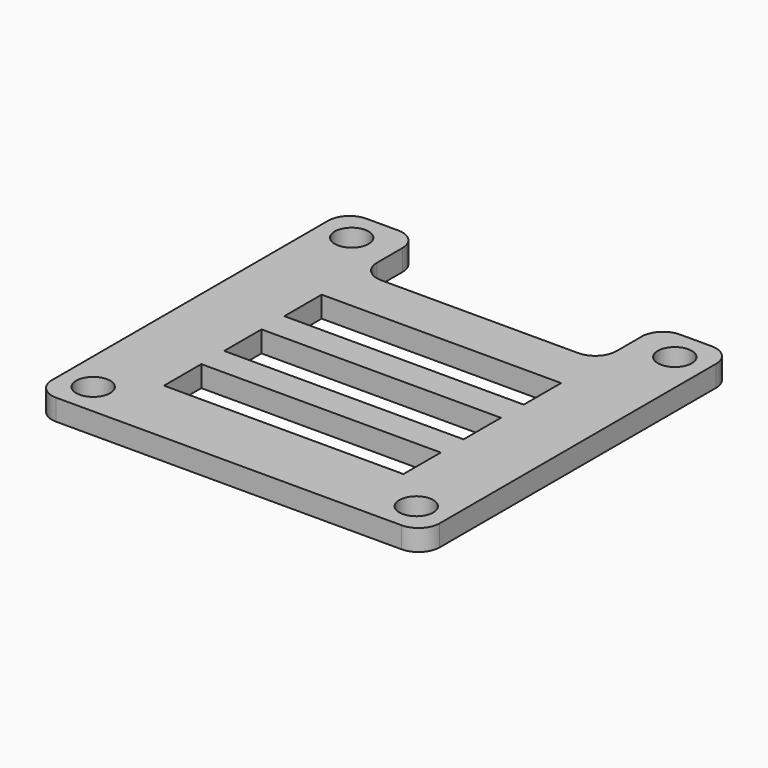
from build123d import *

# Parameters (mm, degrees)
F0_R     = 1.6
F0_W     = 22.6
F0_H     = 4.404037
F1_DEPTH = 2


with BuildPart() as f1:
    # F0 (on Top) → F1 (new body)
    with BuildSketch(Plane.XY):
        with BuildLine():
            Line((-13.3, 18.3), (-16.3, 18.3))
            ThreePointArc((-16.3, 18.3), (-17.714214, 17.714214), (-18.3, 16.3))
            Line((-18.3, 16.3), (-18.3, -16.3))
            ThreePointArc((-18.3, -16.3), (-17.714214, -17.714214), (-16.3, -18.3))
            Line((-16.3, -18.3), (16.3, -18.3))
            ThreePointArc((16.3, -18.3), (17.714214, -17.714214), (18.3, -16.3))
            Line((18.3, -16.3), (18.3, 16.3))
            ThreePointArc((18.3, 16.3), (17.714214, 17.714214), (16.3, 18.3))
            Line((16.3, 18.3), (13.3, 18.3))
            ThreePointArc((13.3, 18.3), (11.885786, 17.714214), (11.3, 16.3))
            Line((11.3, 16.3), (11.3, 13.3))
            ThreePointArc((11.3, 13.3), (10.714214, 11.885786), (9.3, 11.3))
            Line((9.3, 11.3), (-9.3, 11.3))
            ThreePointArc((-9.3, 11.3), (-10.714214, 11.885786), (-11.3, 13.3))
            Line((-11.3, 13.3), (-11.3, 16.3))
            ThreePointArc((-11.3, 16.3), (-11.885786, 17.714214), (-13.3, 18.3))
        make_face()
        with Locations((-15.25, -15.25)):
            Circle(F0_R, mode=Mode.SUBTRACT)
        with Locations((0, -9.631269)):
            Rectangle(F0_W, F0_H, mode=Mode.SUBTRACT)
        with Locations((0, -2.531268)):
            Rectangle(F0_W, F0_H, mode=Mode.SUBTRACT)
        with Locations((15.25, -15.25)):
            Circle(F0_R, mode=Mode.SUBTRACT)
        with Locations((0, 4.568732)):
            Rectangle(F0_W, F0_H, mode=Mode.SUBTRACT)
        with Locations((-15.25, 15.25)):
            Circle(F0_R, mode=Mode.SUBTRACT)
        with Locations((15.25, 15.25)):
            Circle(F0_R, mode=Mode.SUBTRACT)
    extrude(amount=F1_DEPTH)


solid = f1.part
